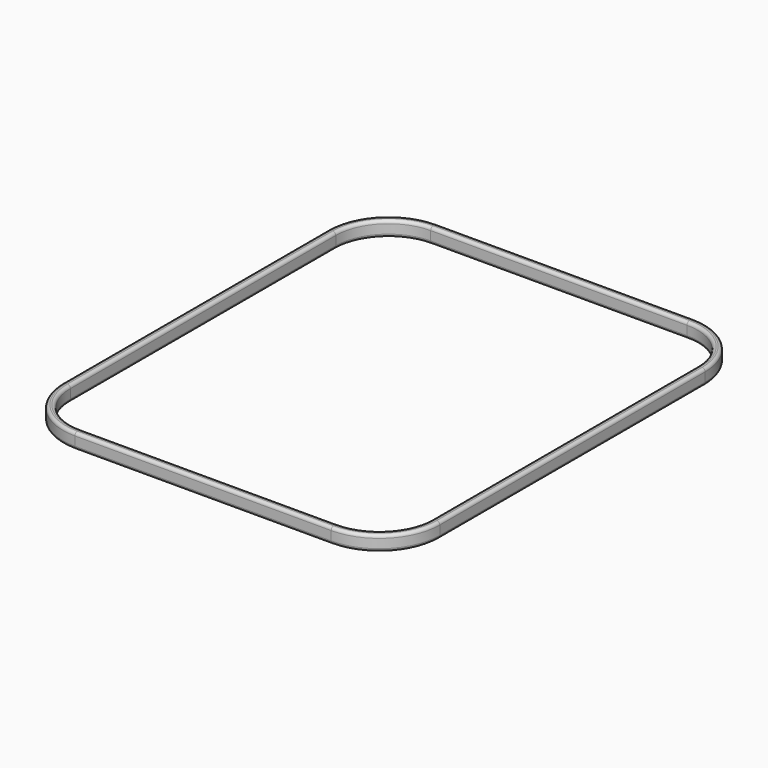
from build123d import *

# Parameters (mm, degrees)
F1_DEPTH = 25.4
F2_R     = 5.08


with BuildPart() as f1:
    # F0 (on Top) → F1 (new body)
    with BuildSketch(Plane.XY):
        with BuildLine():
            ThreePointArc((-317.5, -279.4), (-287.742049, -351.242049), (-215.9, -381))
            Line((-215.9, -381), (-190.5, -381))
            Line((-190.5, -381), (190.5, -381))
            Line((190.5, -381), (215.9, -381))
            ThreePointArc((215.9, -381), (287.742049, -351.242049), (317.5, -279.4))
            Line((317.5, -279.4), (317.5, 279.4))
            ThreePointArc((317.5, 279.4), (287.742049, 351.242049), (215.9, 381))
            Line((215.9, 381), (-215.9, 381))
            ThreePointArc((-215.9, 381), (-287.742049, 351.242049), (-317.5, 279.4))
            Line((-317.5, 279.4), (-317.5, -279.4))
        make_face()
        with BuildLine():
            ThreePointArc((304.8, -279.4), (278.761793, -342.261793), (215.9, -368.3))
            Line((215.9, -368.3), (61.765894, -368.3))
            Line((61.765894, -368.3), (-61.765894, -368.3))
            Line((-61.765894, -368.3), (-215.9, -368.3))
            ThreePointArc((-215.9, -368.3), (-278.761793, -342.261793), (-304.8, -279.4))
            Line((-304.8, -279.4), (-304.8, 279.4))
            ThreePointArc((-304.8, 279.4), (-278.761793, 342.261793), (-215.9, 368.3))
            Line((-215.9, 368.3), (215.9, 368.3))
            ThreePointArc((215.9, 368.3), (278.761793, 342.261793), (304.8, 279.4))
            Line((304.8, 279.4), (304.8, -279.4))
        make_face(mode=Mode.SUBTRACT)
    extrude(amount=F1_DEPTH)

    # F2
    f2_edges = [f1.edges().sort_by_distance(p)[0] for p in [
        (-317.5, 0, 25.4),
        (-287.742049, 351.242049, 25.4),
        (-287.742049, -351.242049, 25.4),
        (0, -381, 25.4),
        (0, 381, 25.4),
        (278.761793, 342.261793, 0),
        (287.742049, 351.242049, 0),
        (0, 368.3, 25.4),
    ]]
    fillet(f2_edges, radius=F2_R)


solid = f1.part
